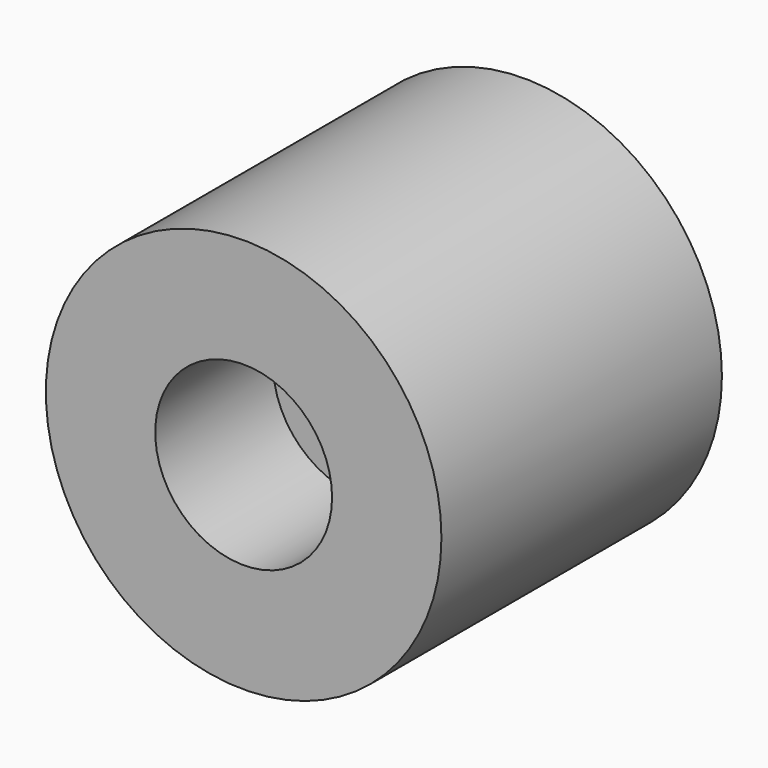
from build123d import *

# Parameters (mm, degrees)
F0_R     = 114.633929
F1_DEPTH = 203.2
F2_R     = 36.83
F3_DEPTH = 355.6
F4_R     = 51.2445
F5_DEPTH = 85.344
F6_R     = 2.6289
F7_DEPTH = 28.575


with BuildPart() as f1:
    # F0 (on Front) → F1 (new body)
    with BuildSketch(Plane.XZ):
        Circle(F0_R)
    extrude(amount=F1_DEPTH)

    # F2 (on face) → F3 (cut)
    with BuildSketch(Plane.XZ.offset(203.2)):
        Circle(F2_R)
    extrude(amount=-F3_DEPTH, mode=Mode.SUBTRACT)

    # F4 (on face) → F5 (cut)
    with BuildSketch(Plane.XZ.offset(203.2)):
        Circle(F4_R)
    extrude(amount=-F5_DEPTH, mode=Mode.SUBTRACT)

    # F6 (on face) → F7 (cut)
    with BuildSketch(Plane.XZ.offset(117.856)):
        with Locations((0, -44.45)):
            Circle(F6_R)
    extrude(amount=-F7_DEPTH, mode=Mode.SUBTRACT)


solid = f1.part
